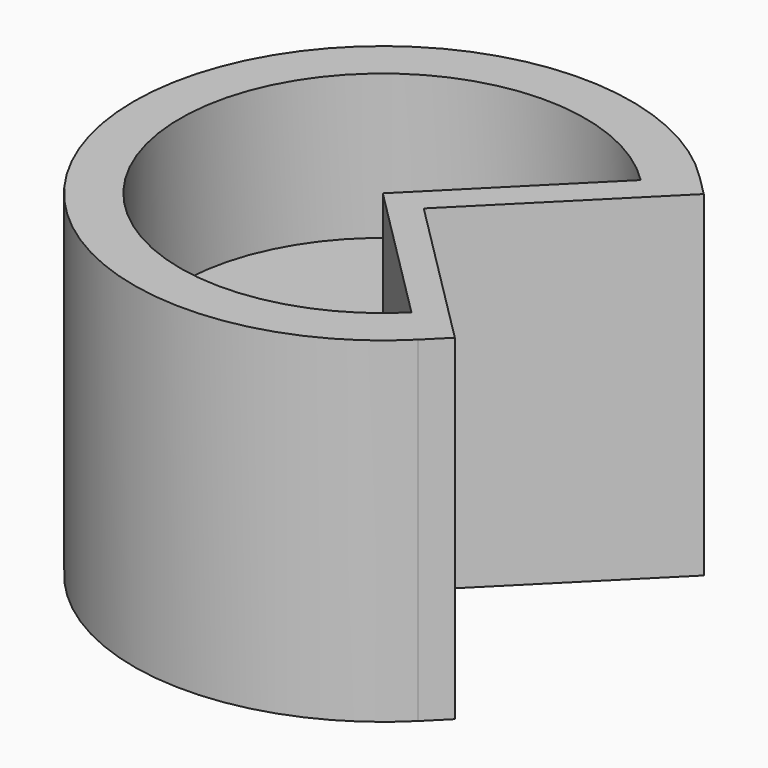
from build123d import *

# Parameters (mm, degrees)
F1_ANGLE_BACK = 135
F1_ANGLE      = 270
F3_DEPTH      = 29
F4_DEPTH      = 29


with BuildPart() as f1:
    # F0 (on Front) → F1 (revolve)
    with BuildSketch(Plane.XZ, mode=Mode.PRIVATE) as f1_sk:
        Polygon((0, -4), (0, 4), (-35, 4), (-35, 29), (-43, 29), (-43, -29), (-35, -29), (-35, -4), align=None)
    revolve(f1_sk.sketch.rotate(Axis((0, 0, -1.0322406888), (0, 0, 1)), -F1_ANGLE_BACK), axis=Axis((0, 0, -1.0322406888), (0, 0, 1)), revolution_arc=F1_ANGLE)

    # F2 (on Top) → F3 (join, through all)
    with BuildSketch(Plane.XY):
        Polygon((0, 0), (30.405591591, -30.405591591), (33.941125497, -26.8700576851), (7.0710678119, 0), (33.941125497, 26.8700576851), (30.405591591, 30.405591591), align=None)
    extrude(amount=F3_DEPTH)

    # F4 (add, through all): a face of the model
    f4_faces = [f1.faces().sort_by_distance(p)[0] for p in [
        (15.6952386856, -14.7103529054, 0),
    ]]
    extrude(f4_faces, amount=F4_DEPTH)


solid = f1.part
